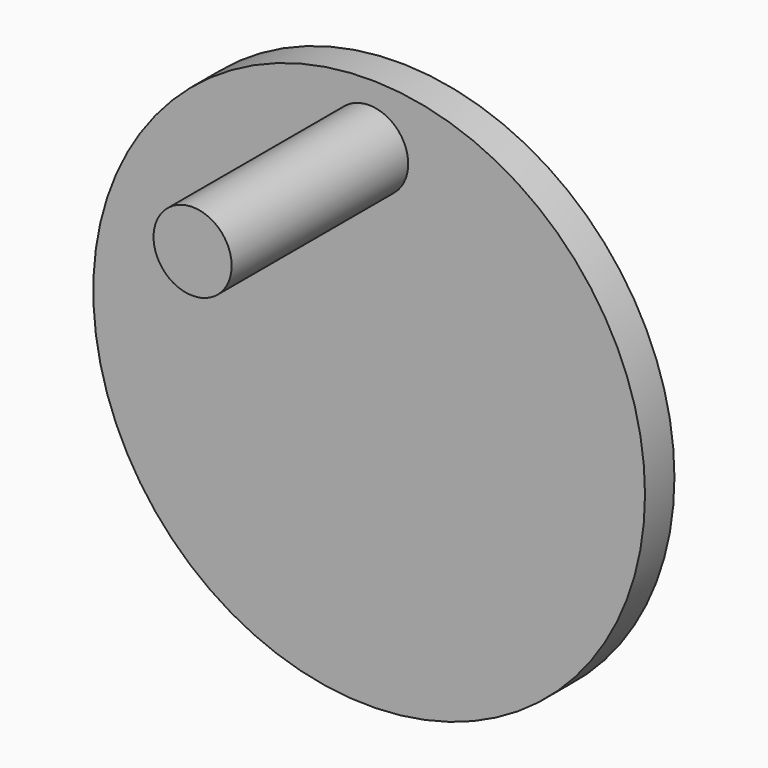
from build123d import *

# Parameters (mm, degrees)
F0_R     = 10
F1_DEPTH = 15
F2_R     = 75
F3_DEPTH = 10
F4_R     = 10.618259
F5_DEPTH = 60


with BuildPart() as f1:
    # F0 (on Front) → F1 (new body)
    with BuildSketch(Plane.XZ):
        Circle(F0_R)
    extrude(amount=F1_DEPTH)

    # F2 (on face) → F3 (join)
    with BuildSketch(Plane.XZ.offset(15)):
        Circle(F2_R)
    extrude(amount=F3_DEPTH)

    # F4 (on face) → F5 (join)
    with BuildSketch(Plane.XZ.offset(25)):
        with Locations((0, 58.153849)):
            Circle(F4_R)
    extrude(amount=F5_DEPTH)


solid = f1.part
